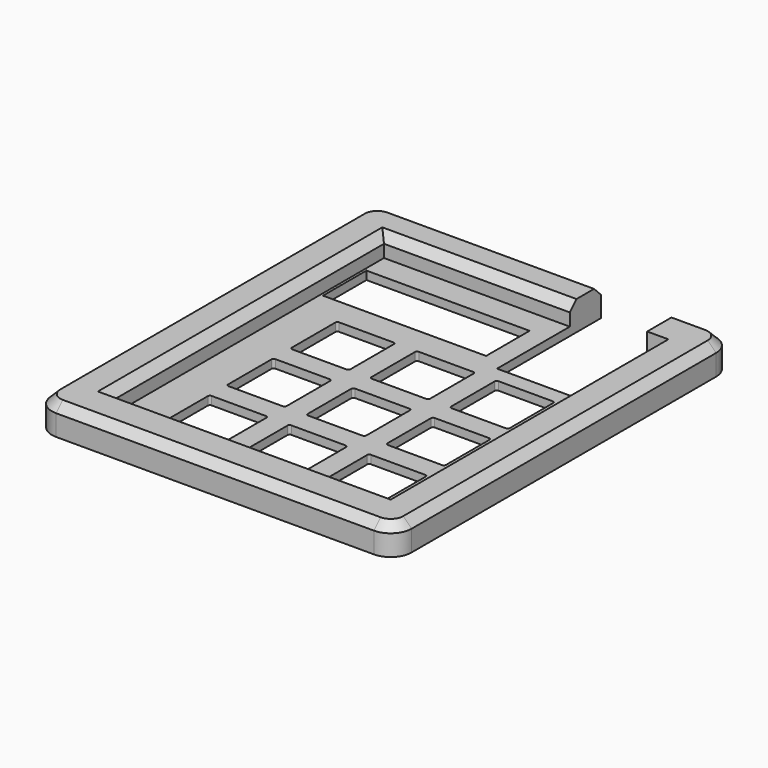
from build123d import *

# Parameters (mm, degrees)
SKETCH006_W     = 86
SKETCH006_H     = 101
SKETCH006_R     = 1.7
PAD002_DEPTH    = 2
SKETCH007_W     = 18.5
SKETCH007_H     = 31
SKETCH007_W_2   = 39
SKETCH007_H_2   = 13
POCKET002_DEPTH = 5
SKETCH008_W     = 86
SKETCH008_H     = 101
SKETCH008_W_2   = 66
SKETCH008_H_2   = 81
PAD003_DEPTH    = 3
SKETCH009_R     = 1.7
POCKET003_DEPTH = 3
SKETCH010_W     = 86
SKETCH010_H     = 101
SKETCH010_W_2   = 66
SKETCH010_H_2   = 81
PAD004_DEPTH    = 2
SKETCH011_W     = 18.5
SKETCH011_H     = 31
POCKET004_DEPTH = 5
FILLET001_R     = 5
CHAMFER_SIZE    = 2
CHAMFER001_SIZE = 2


with BuildPart() as part:
    # Sketch006 → Pad002 (new body)
    with BuildSketch(Plane.XY):
        with Locations((103.313661, -0.74487)):
            Rectangle(SKETCH006_W, SKETCH006_H)
        with Locations((141.313661, 44.75513)):
            Circle(SKETCH006_R, mode=Mode.SUBTRACT)
        with Locations((141.313661, -46.24487)):
            Circle(SKETCH006_R, mode=Mode.SUBTRACT)
        with Locations((65.313661, -46.24487)):
            Circle(SKETCH006_R, mode=Mode.SUBTRACT)
        with Locations((65.313661, 44.75513)):
            Circle(SKETCH006_R, mode=Mode.SUBTRACT)
        with BuildLine():
            Line((93.013661, 0.95513), (80.013661, 0.95513))
            ThreePointArc((79.513661, 1.45513), (79.660108, 1.101576), (80.013661, 0.95513))
            Line((79.513661, 1.45513), (79.513661, 14.45513))
            ThreePointArc((80.013661, 14.95513), (79.660108, 14.808683), (79.513661, 14.45513))
            Line((80.013661, 14.95513), (93.013661, 14.95513))
            ThreePointArc((93.513661, 14.45513), (93.367214, 14.808683), (93.013661, 14.95513))
            Line((93.513661, 14.45513), (93.513661, 1.45513))
            ThreePointArc((93.013661, 0.95513), (93.367214, 1.101576), (93.513661, 1.45513))
        make_face(mode=Mode.SUBTRACT)
        with BuildLine():
            Line((112.063661, 0.95513), (99.063661, 0.95513))
            ThreePointArc((98.563661, 1.45513), (98.710108, 1.101576), (99.063661, 0.95513))
            Line((98.563661, 1.45513), (98.563661, 14.45513))
            ThreePointArc((99.063661, 14.95513), (98.710108, 14.808683), (98.563661, 14.45513))
            Line((99.063661, 14.95513), (112.063661, 14.95513))
            ThreePointArc((112.563661, 14.45513), (112.417214, 14.808683), (112.063661, 14.95513))
            Line((112.563661, 14.45513), (112.563661, 1.45513))
            ThreePointArc((112.063661, 0.95513), (112.417214, 1.101576), (112.563661, 1.45513))
        make_face(mode=Mode.SUBTRACT)
        with BuildLine():
            Line((131.113661, 0.95513), (118.113661, 0.95513))
            ThreePointArc((117.613661, 1.45513), (117.760108, 1.101576), (118.113661, 0.95513))
            Line((117.613661, 1.45513), (117.613661, 14.45513))
            ThreePointArc((118.113661, 14.95513), (117.760108, 14.808683), (117.613661, 14.45513))
            Line((118.113661, 14.95513), (131.113661, 14.95513))
            ThreePointArc((131.613661, 14.45513), (131.467214, 14.808683), (131.113661, 14.95513))
            Line((131.613661, 14.45513), (131.613661, 1.45513))
            ThreePointArc((131.113661, 0.95513), (131.467214, 1.101576), (131.613661, 1.45513))
        make_face(mode=Mode.SUBTRACT)
        with BuildLine():
            Line((93.013661, -18.09487), (80.013661, -18.09487))
            ThreePointArc((79.513661, -17.59487), (79.660108, -17.948424), (80.013661, -18.09487))
            Line((79.513661, -17.59487), (79.513661, -4.59487))
            ThreePointArc((80.013661, -4.09487), (79.660108, -4.241317), (79.513661, -4.59487))
            Line((80.013661, -4.09487), (93.013661, -4.09487))
            ThreePointArc((93.513661, -4.59487), (93.367214, -4.241317), (93.013661, -4.09487))
            Line((93.513661, -4.59487), (93.513661, -17.59487))
            ThreePointArc((93.013661, -18.09487), (93.367214, -17.948424), (93.513661, -17.59487))
        make_face(mode=Mode.SUBTRACT)
        with BuildLine():
            Line((112.063661, -18.09487), (99.063661, -18.09487))
            ThreePointArc((98.563661, -17.59487), (98.710108, -17.948424), (99.063661, -18.09487))
            Line((98.563661, -17.59487), (98.563661, -4.59487))
            ThreePointArc((99.063661, -4.09487), (98.710108, -4.241317), (98.563661, -4.59487))
            Line((99.063661, -4.09487), (112.063661, -4.09487))
            ThreePointArc((112.563661, -4.59487), (112.417214, -4.241317), (112.063661, -4.09487))
            Line((112.563661, -4.59487), (112.563661, -17.59487))
            ThreePointArc((112.063661, -18.09487), (112.417214, -17.948424), (112.563661, -17.59487))
        make_face(mode=Mode.SUBTRACT)
        with BuildLine():
            Line((131.113661, -18.09487), (118.113661, -18.09487))
            ThreePointArc((117.613661, -17.59487), (117.760108, -17.948424), (118.113661, -18.09487))
            Line((117.613661, -17.59487), (117.613661, -4.59487))
            ThreePointArc((118.113661, -4.09487), (117.760108, -4.241317), (117.613661, -4.59487))
            Line((118.113661, -4.09487), (131.113661, -4.09487))
            ThreePointArc((131.613661, -4.59487), (131.467214, -4.241317), (131.113661, -4.09487))
            Line((131.613661, -4.59487), (131.613661, -17.59487))
            ThreePointArc((131.113661, -18.09487), (131.467214, -17.948424), (131.613661, -17.59487))
        make_face(mode=Mode.SUBTRACT)
        with BuildLine():
            Line((93.013661, -37.14487), (80.013661, -37.14487))
            ThreePointArc((79.513661, -36.64487), (79.660108, -36.998424), (80.013661, -37.14487))
            Line((79.513661, -36.64487), (79.513661, -23.64487))
            ThreePointArc((80.013661, -23.14487), (79.660108, -23.291317), (79.513661, -23.64487))
            Line((80.013661, -23.14487), (93.013661, -23.14487))
            ThreePointArc((93.513661, -23.64487), (93.367214, -23.291317), (93.013661, -23.14487))
            Line((93.513661, -23.64487), (93.513661, -36.64487))
            ThreePointArc((93.013661, -37.14487), (93.367214, -36.998424), (93.513661, -36.64487))
        make_face(mode=Mode.SUBTRACT)
        with BuildLine():
            Line((112.063661, -37.14487), (99.063661, -37.14487))
            ThreePointArc((98.563661, -36.64487), (98.710108, -36.998424), (99.063661, -37.14487))
            Line((98.563661, -36.64487), (98.563661, -23.64487))
            ThreePointArc((99.063661, -23.14487), (98.710108, -23.291317), (98.563661, -23.64487))
            Line((99.063661, -23.14487), (112.063661, -23.14487))
            ThreePointArc((112.563661, -23.64487), (112.417214, -23.291317), (112.063661, -23.14487))
            Line((112.563661, -23.64487), (112.563661, -36.64487))
            ThreePointArc((112.063661, -37.14487), (112.417214, -36.998424), (112.563661, -36.64487))
        make_face(mode=Mode.SUBTRACT)
        with BuildLine():
            Line((131.113661, -37.14487), (118.113661, -37.14487))
            ThreePointArc((117.613661, -36.64487), (117.760108, -36.998424), (118.113661, -37.14487))
            Line((117.613661, -36.64487), (117.613661, -23.64487))
            ThreePointArc((118.113661, -23.14487), (117.760108, -23.291317), (117.613661, -23.64487))
            Line((118.113661, -23.14487), (131.113661, -23.14487))
            ThreePointArc((131.613661, -23.64487), (131.467214, -23.291317), (131.113661, -23.14487))
            Line((131.613661, -23.64487), (131.613661, -36.64487))
            ThreePointArc((131.113661, -37.14487), (131.467214, -36.998424), (131.613661, -36.64487))
        make_face(mode=Mode.SUBTRACT)
    extrude(amount=PAD002_DEPTH)

    # Sketch007 → Pocket002 (cut, symmetric)
    with BuildSketch(Plane.XY.offset(2)):
        with Locations((123.989661, 34.25513)):
            Rectangle(SKETCH007_W, SKETCH007_H)
        with Locations((90.429661, 27.99613)):
            Rectangle(SKETCH007_W_2, SKETCH007_H_2)
    extrude(amount=POCKET002_DEPTH, both=True, mode=Mode.SUBTRACT)

    # Sketch008 (on Face5 of Pocket002) → Pad003 (join)
    with BuildSketch(Plane.XY.offset(2)):
        with Locations((103.313661, -0.74487)):
            Rectangle(SKETCH008_W, SKETCH008_H)
        with Locations((103.313661, 0)):
            Rectangle(SKETCH008_W_2, SKETCH008_H_2, mode=Mode.SUBTRACT)
    extrude(amount=PAD003_DEPTH)

    # Sketch009 (on Face92 of Pad003) → Pocket003 (cut)
    with BuildSketch(Plane.XY.offset(5)):
        with Locations((65.313661, 44.75513)):
            Circle(SKETCH009_R)
        with Locations((141.313661, 44.75513)):
            Circle(SKETCH009_R)
        with Locations((141.313661, -46.24487)):
            Circle(SKETCH009_R)
        with Locations((65.313661, -46.24487)):
            Circle(SKETCH009_R)
    extrude(amount=-POCKET003_DEPTH, mode=Mode.SUBTRACT)

    # Sketch010 (on Face85 of Pocket003) → Pad004 (join)
    with BuildSketch(Plane.XY.offset(5)):
        with Locations((103.313661, -0.74487)):
            Rectangle(SKETCH010_W, SKETCH010_H)
        with Locations((103.313661, 0)):
            Rectangle(SKETCH010_W_2, SKETCH010_H_2, mode=Mode.SUBTRACT)
    extrude(amount=PAD004_DEPTH)

    # Sketch011 (on Face92 of Pad004) → Pocket004 (cut)
    with BuildSketch(Plane.XY.offset(7)):
        with Locations((123.989661, 34.25513)):
            Rectangle(SKETCH011_W, SKETCH011_H)
    extrude(amount=-POCKET004_DEPTH, mode=Mode.SUBTRACT)

    # Fillet001
    fillet001_edges = [part.edges().sort_by_distance(p)[0] for p in [
        (146.313661, -51.24487, 3.5),
        (60.313661, -51.24487, 3.5),
        (146.313661, 49.75513, 3.5),
        (60.313661, 49.75513, 3.5),
    ]]
    fillet(fillet001_edges, radius=FILLET001_R)

    # Chamfer
    chamfer_edges = [part.edges().sort_by_distance(p)[0] for p in [
        (103.313661, -40.5, 7),
        (136.313661, 0, 7),
        (70.313661, 0, 7),
        (92.526661, 40.5, 7),
    ]]
    chamfer(chamfer_edges, length=CHAMFER_SIZE)

    # Chamfer001
    chamfer001_edges = [part.edges().sort_by_distance(p)[0] for p in [
        (60.313661, -0.74487, 7),
        (103.313661, -51.24487, 7),
        (61.778127, -49.780404, 7),
        (144.849195, -49.780404, 7),
        (146.313661, -0.74487, 7),
        (144.849195, 48.290663, 7),
        (137.276661, 49.75513, 7),
        (61.778127, 48.290663, 7),
        (90.026661, 49.75513, 7),
    ]]
    chamfer(chamfer001_edges, length=CHAMFER001_SIZE)


solid = part.part
